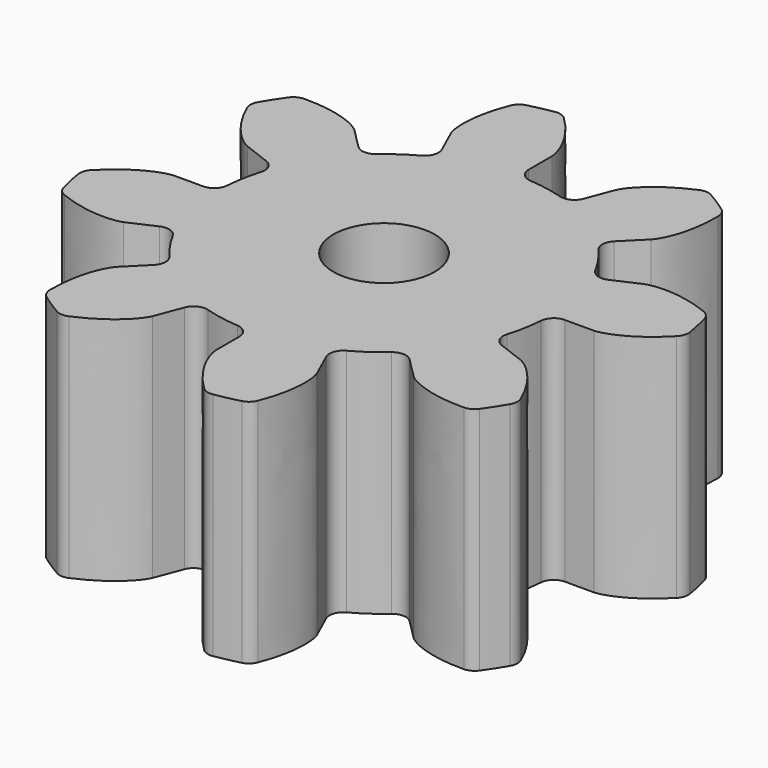
from build123d import *

# Parameters (mm, degrees)
F1_DEPTH = 5
F3_R     = 0.3
F4_COUNT = 8
F5_R     = 1.1
F6_DEPTH = 5.0010001


with BuildPart() as f1:
    # F0 (on Top) → F1 (new body)
    with BuildSketch(Plane.XY):
        with BuildLine():
            ThreePointArc((3.316594457, 1.4910874955), (-3.5555227667, -0.7624949617), (3.636363666, 0))
            ThreePointArc((3.636363666, 0), (3.5555227667, 0.7624949617), (3.316594457, 1.4910874955))
        make_face()
        with BuildLine():
            Line((3.636363666, 0), (4.5560854715, 0))
            add(Edge.make_bspline(
                [(4.5560854715, 0), (4.5586973109, 0.0005964042), (4.5755942409, 0.0002913169), (4.6241295523, 0.0071663537), (4.70365465, 0.0240098096), (4.813076722, 0.0575064372), (4.9494764701, 0.1120705577), (5.1102946386, 0.1930265881), (5.2903320184, 0.3029301817), (5.4917804908, 0.4530145941), (5.6715827782, 0.6062605299), (5.834643349, 0.7775056884), (5.8813683709, 0.8281950581)],
                knots=[0, 0, 0, 0, 0.0334564313, 0.0914021068, 0.1662093874, 0.2547224692, 0.3550868298, 0.4660437828, 0.5866666938, 0.7162364753, 0.8541740343, 0.9738701249, 0.9738701249, 0.9738701249, 0.9738701249], degree=3))
            ThreePointArc((5.8813683709, 0.8281950581), (5.8073538545, 1.2454084378), (5.7037818377, 1.6562831027))
            add(Edge.make_bspline(
                [(4.1554391167, 1.8682185554), (4.158065835, 1.8687455792), (4.1733518069, 1.8759524084), (4.2204381936, 1.8895837972), (4.2998767732, 1.9068306878), (4.4134119084, 1.921148055), (4.5601911019, 1.9273127022), (4.7400634224, 1.9194190028), (4.9493348044, 1.8930041081), (5.1946105688, 1.8387213547), (5.4214400182, 1.7726790936), (5.640380524, 1.6833554738), (5.7037818377, 1.6562831027)],
                knots=[0, 0, 0, 0, 0.0334564313, 0.0914021068, 0.1662093874, 0.2547224692, 0.3550868298, 0.4660437828, 0.5866666938, 0.7162364753, 0.8541740343, 0.9738701249, 0.9738701249, 0.9738701249, 0.9738701249], degree=3))
            Line((4.1554391167, 1.8682185554), (3.316594457, 1.4910874955))
            ThreePointArc((3.316594457, 1.4910874955), (3.5555227667, 0.7624949617), (3.636363666, 0))
        make_face()
    extrude(amount=F1_DEPTH)

    # F3
    f3_edges = [f1.edges().sort_by_distance(p)[0] for p in [
        (5.881368, 0.828195, 2.5),
        (5.703782, 1.656283, 2.5),
        (3.316594, 1.491087, 2.5),
        (3.636364, 0, 2.5),
    ]]
    fillet(f3_edges, radius=F3_R)

    # F4: F1 ×8 about axis
    f4_axis = Axis((0, 0, -3.0625611544), (0, 0, -1))


with BuildPart() as f1_1:
    add(f1.part)
    for i in range(1, F4_COUNT):
        add(f1.part.rotate(f4_axis, i * 360 / F4_COUNT))

    # F5 (on face) → F6 (cut, through all)
    with BuildSketch(Plane.XY.offset(5)):
        Circle(F5_R)
    extrude(amount=-F6_DEPTH, mode=Mode.SUBTRACT)


solid = f1_1.part
